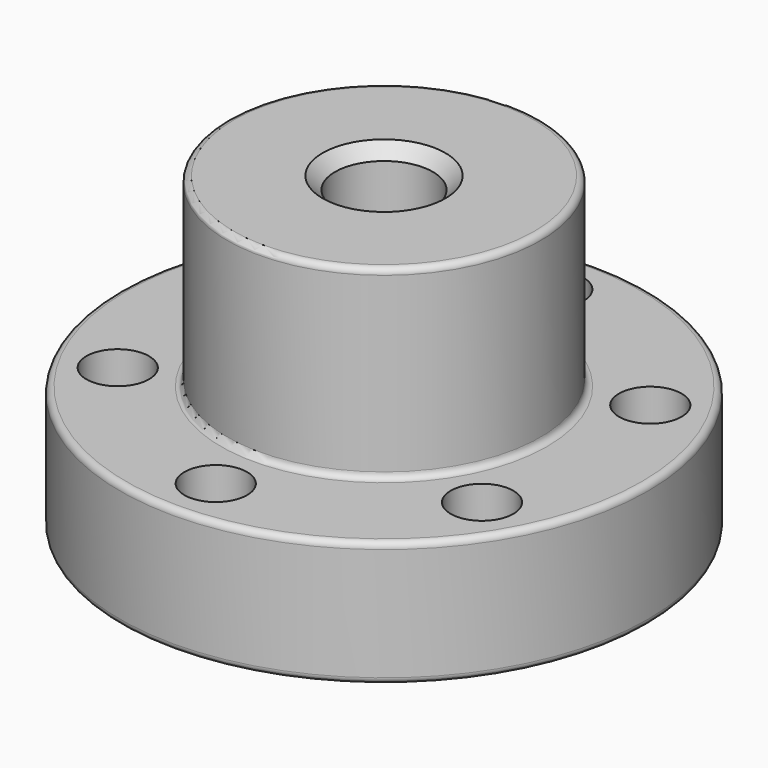
from build123d import *

# Parameters (mm, degrees)
F2_R     = 2.5
F3_DEPTH = 25
F4_R     = 0.5
F5_SIZE  = 1


with BuildPart() as f1:
    # F0 (on Front) → F1 (revolve)
    with BuildSketch(Plane.XZ):
        Polygon((-21.055, 10), (-21.055, 0), (-3.9, 0), (-3.9, 24.8), (-12.5, 24.8), (-12.5, 10), align=None)
    revolve(axis=Axis((0, 0, 19.087244), (0, 0, 1)))

    # F2 (on face) → F3 (cut)
    with BuildSketch(Plane.XY.offset(10)):
        with Locations((0, 16.7775)):
            Circle(F2_R)
        with Locations((-14.529741, 8.38875)):
            Circle(F2_R)
        with Locations((-14.529741, -8.38875)):
            Circle(F2_R)
        with Locations((0, -16.7775)):
            Circle(F2_R)
        with Locations((14.529741, -8.38875)):
            Circle(F2_R)
        with Locations((14.529741, 8.38875)):
            Circle(F2_R)
    extrude(amount=-F3_DEPTH, mode=Mode.SUBTRACT)

    # F4
    f4_edges = [f1.edges().sort_by_distance(p)[0] for p in [
        (12.5, 0, 24.8),
        (21.055, 0, 10),
        (21.055, 0, 0),
        (12.5, 0, 10),
    ]]
    fillet(f4_edges, radius=F4_R)

    # F5
    f5_edges = [f1.edges().sort_by_distance(p)[0] for p in [
        (3.9, 0, 24.8),
        (3.9, 0, 0),
    ]]
    chamfer(f5_edges, length=F5_SIZE)


solid = f1.part
